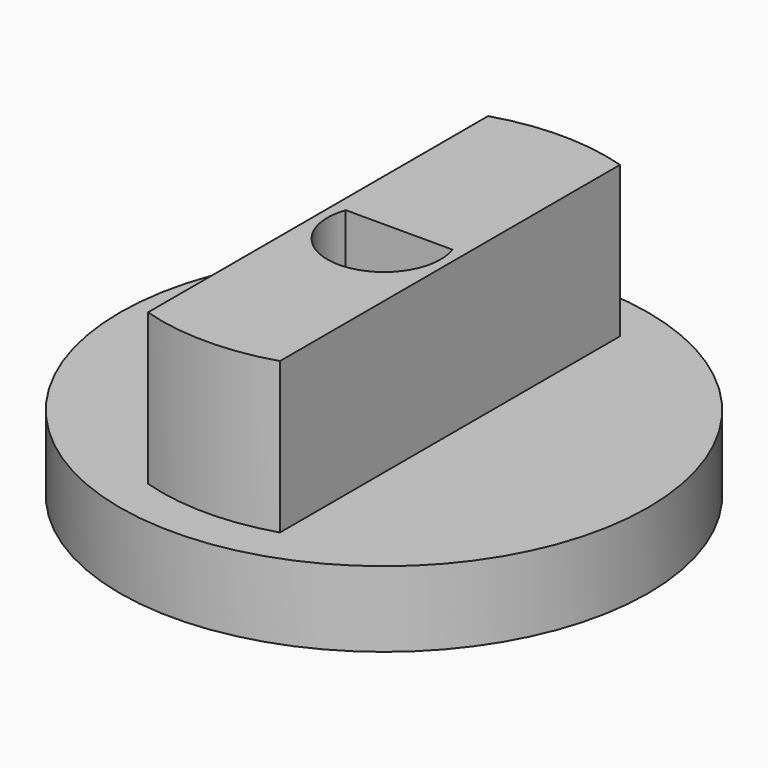
from build123d import *

# Parameters (mm, degrees)
F0_R     = 22.225
F1_DEPTH = 6.35
F3_DEPTH = 12.7


with BuildPart() as f1:
    # F0 (on Top) → F1 (new body)
    with BuildSketch(Plane.XY):
        Circle(F0_R)
        with BuildLine():
            ThreePointArc((4.490128, 1.5875), (0, -4.7625), (-4.490128, 1.5875))
            Line((-4.490128, 1.5875), (4.490128, 1.5875))
        make_face(mode=Mode.SUBTRACT)
    extrude(amount=F1_DEPTH)

    # F2 (on face) → F3 (join)
    with BuildSketch(Plane.XY.offset(6.35)):
        with BuildLine():
            Line((-5.550423, 17.883812), (-5.550423, -17.883812))
            ThreePointArc((-5.550423, -17.883812), (0, -18.725328), (5.550423, -17.883812))
            Line((5.550423, -17.883812), (5.550423, 17.883812))
            ThreePointArc((5.550423, 17.883812), (0, 18.725328), (-5.550423, 17.883812))
        make_face()
        with BuildLine():
            Line((-4.490128, 1.5875), (4.490128, 1.5875))
            ThreePointArc((4.490128, 1.5875), (0, -4.7625), (-4.490128, 1.5875))
        make_face(mode=Mode.SUBTRACT)
    extrude(amount=F3_DEPTH)


solid = f1.part
